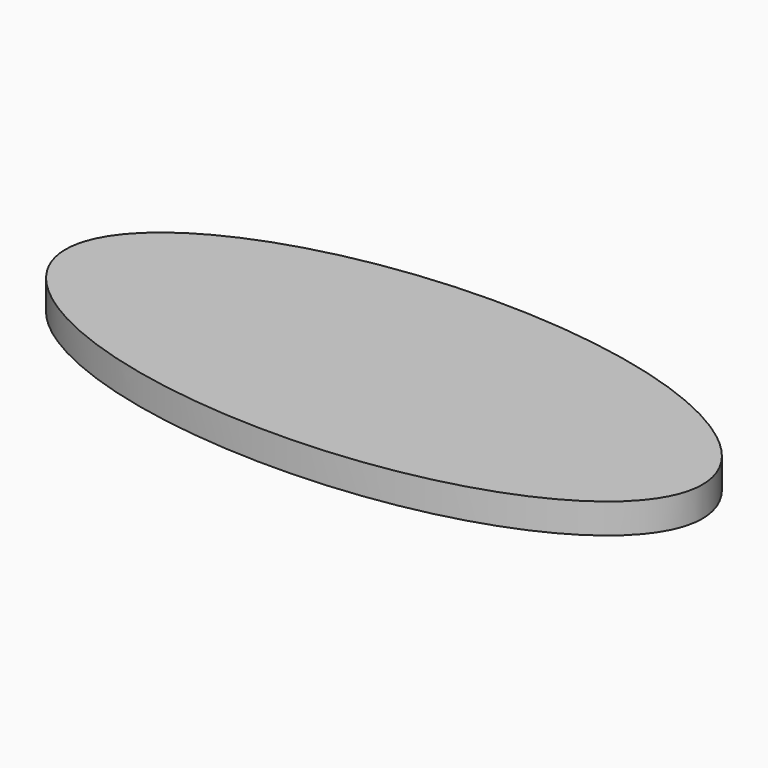
from build123d import *

# Parameters (mm, degrees)
F1_DEPTH = 12.7
F2_R     = 3
F3_DEPTH = 10


with BuildPart() as f1:
    # F0 (on Top) → F1 (new body)
    with BuildSketch(Plane.XY):
        with BuildLine():
            add(Edge.make_bspline(
                [(135, 0), (135, 103.923048), (-67.5, 51.961524), (-270, 0), (-67.5, -51.961524), (135, -103.923048), (135, 0)],
                knots=[0, 0, 0, 2.094395, 2.094395, 4.18879, 4.18879, 6.283185, 6.283185, 6.283185], degree=2, weights=[1, 0.5, 1, 0.5, 1, 0.5, 1]))
        make_face()
    extrude(amount=F1_DEPTH)

    # F2 (on face) → F3 (cut)
    with BuildSketch(Plane(origin=(0, 0, 0), x_dir=(1, 0, 0), z_dir=(0, 0, -1))):
        with Locations((-45, -30)):
            Circle(F2_R)
        with Locations((-45, 5)):
            Circle(F2_R)
    extrude(amount=-F3_DEPTH, mode=Mode.SUBTRACT)


solid = f1.part
